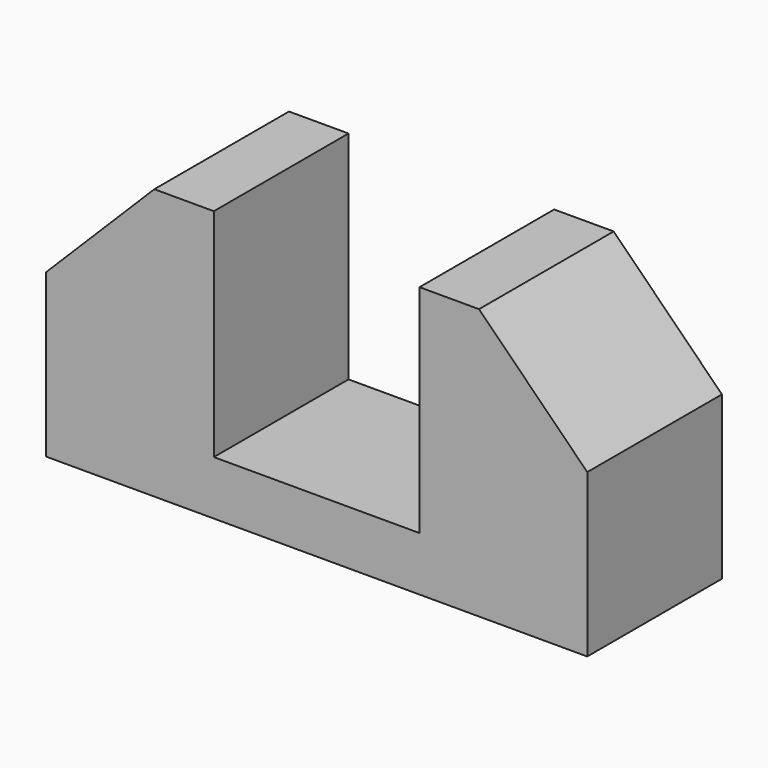
from build123d import *

# Parameters (mm, degrees)
F0_W     = 25.4
F0_H     = 7.9
F1_DEPTH = 12.7
F2_SIZE  = 5.08
F3_W     = 9.652
F3_H     = 7.9
F4_DEPTH = 10.16


with BuildPart() as f1:
    # F0 (on Top) → F1 (new body)
    with BuildSketch(Plane.XY):
        Rectangle(F0_W, F0_H)
    extrude(amount=F1_DEPTH)

    # F2
    f2_edges = [f1.edges().sort_by_distance(p)[0] for p in [
        (12.7, 0, 12.7),
        (-12.7, 0, 12.7),
    ]]
    chamfer(f2_edges, length=F2_SIZE)

    # F3 (on face) → F4 (cut)
    with BuildSketch(Plane.XY.offset(12.7)):
        Rectangle(F3_W, F3_H)
    extrude(amount=-F4_DEPTH, mode=Mode.SUBTRACT)


solid = f1.part
